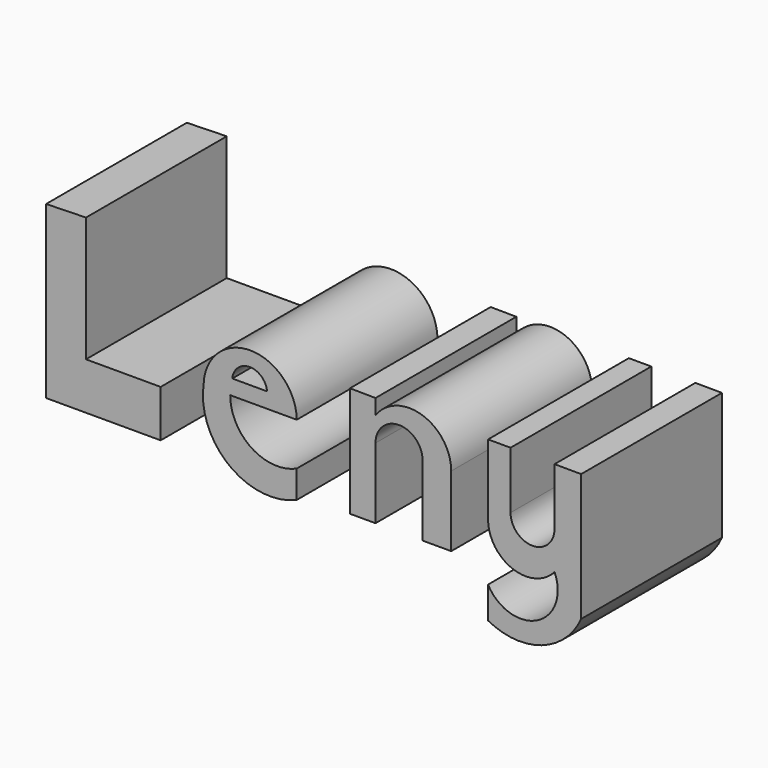
from build123d import *

# Parameters (mm, degrees)
F1_DEPTH = 40


with BuildPart() as f1:
    # F0 (on Front) → F1 (new body)
    with BuildSketch(Plane.XZ):
        Polygon((-60.007501, 43.726396), (-69.078401, 43.493811), (-69.078401, 4.651744), (-43.028634, 4.651744), (-43.028634, 15.350756), (-60.007501, 15.350756), align=None)
        with BuildLine():
            ThreePointArc((-12.094535, 9.070901), (-22.324107, 9.822335), (-27.212704, 18.839564))
            Line((-27.212704, 18.839564), (-12.094535, 18.839564))
            ThreePointArc((-12.094535, 18.839564), (-22.563634, 29.295328), (-33.259973, 19.072151))
            ThreePointArc((-33.259973, 19.072151), (-27.457818, 4.716865), (-12.094535, 2.791047))
            Line((-12.094535, 2.791047), (-12.094535, 9.070901))
        make_face()
        with BuildLine():
            Line((-18.839564, 22.328373), (-26.74753, 22.328373))
            ThreePointArc((-26.74753, 22.328373), (-22.793547, 25.927689), (-18.839564, 22.328373))
        make_face(mode=Mode.SUBTRACT)
        with BuildLine():
            Line((5.81468, 29.016208), (0, 29.0734))
            Line((0, 29.0734), (0, 3.953983))
            Line((0, 3.953983), (5.81468, 3.953983))
            Line((5.81468, 3.953983), (5.81468, 20.002501))
            ThreePointArc((5.81468, 20.002501), (11.164186, 25.352007), (16.513692, 20.002501))
            Line((16.513692, 20.002501), (16.513692, 3.953983))
            Line((16.513692, 3.953983), (23.026135, 3.953983))
            Line((23.026135, 3.953983), (23.026135, 20.002501))
            ThreePointArc((23.026135, 20.002501), (16.44937, 29.049516), (5.81468, 25.584593))
            Line((5.81468, 25.584593), (5.81468, 29.016208))
        make_face()
        with BuildLine():
            Line((36.51619, 29.049516), (31.399272, 29.049516))
            Line((31.399272, 29.049516), (31.399272, 13.024884))
            ThreePointArc((31.399272, 13.024884), (37.013674, 4.966987), (46.517443, 7.442791))
            ThreePointArc((46.517443, 7.442791), (42.539191, -3.552173), (31.399272, 0))
            Line((31.399272, 0), (31.399272, -7.210203))
            ThreePointArc((31.399272, -7.210203), (43.548604, -8.201927), (52.566261, 0))
            Line((52.566261, 0), (52.566261, 28.991745))
            Line((52.566261, 28.991745), (46.517443, 29.016208))
            Line((46.517443, 29.016208), (46.517443, 16.048519))
            ThreePointArc((46.517443, 16.048519), (41.516816, 11.047892), (36.51619, 16.048519))
            Line((36.51619, 16.048519), (36.51619, 29.049516))
        make_face()
    extrude(amount=F1_DEPTH)


solid = f1.part
